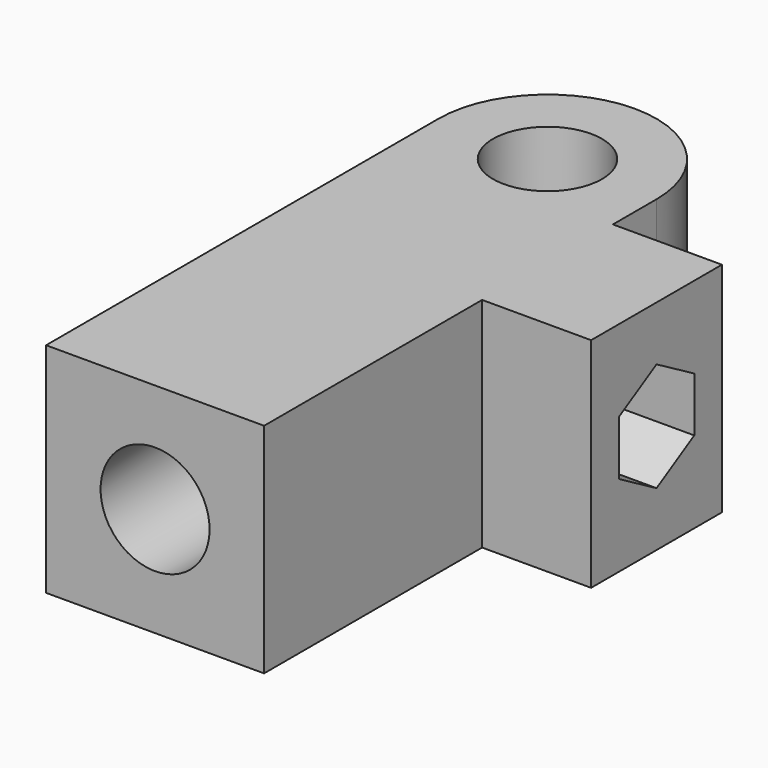
from build123d import *

# Parameters (mm, degrees)
F0_R     = 5
F1_DEPTH = 20
F2_R     = 5
F3_DEPTH = 10
F4_W     = 15
F4_H     = 20
F5_DEPTH = 10
F7_DEPTH = 30


with BuildPart() as f1:
    # F0 (on Top) → F1 (new body)
    with BuildSketch(Plane.XY):
        with BuildLine():
            Line((0, 45), (0, 0))
            Line((0, 0), (20, 0))
            Line((20, 0), (20, 45))
            ThreePointArc((20, 45), (10, 55), (0, 45))
        make_face()
        with Locations((10, 45)):
            Circle(F0_R, mode=Mode.SUBTRACT)
    extrude(amount=F1_DEPTH)

    # F2 (on face) → F3 (cut)
    with BuildSketch(Plane.XZ):
        with Locations((10, 10)):
            Circle(F2_R)
    extrude(amount=-F3_DEPTH, mode=Mode.SUBTRACT)

    # F4 (on face) → F5 (join)
    with BuildSketch(Plane.YZ.offset(20)):
        with Locations((32.5, 10)):
            Rectangle(F4_W, F4_H)
    extrude(amount=F5_DEPTH)

    # F6 (on face) → F7 (cut, through all)
    with BuildSketch(Plane.YZ.offset(30)):
        Polygon((36.830127, 12.5), (32.5, 15), (28.169873, 12.5), (28.169873, 7.5), (32.5, 5), (36.830127, 7.5), align=None)
    extrude(amount=-F7_DEPTH, mode=Mode.SUBTRACT)


solid = f1.part
